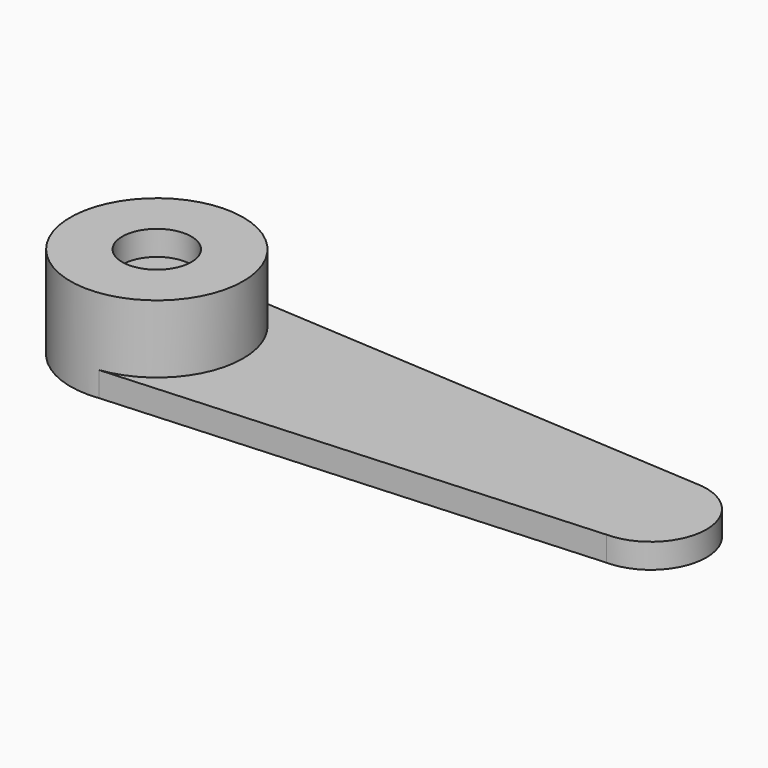
from build123d import *

# Parameters (mm, degrees)
SKETCH002_R      = 4.5
EXTRUDE002_DEPTH = 2
SKETCH_R         = 7
EXTRUDE001_DEPTH = 7.5
EXTRUDE_DEPTH    = 2
SKETCH003_R      = 2.8
POCKET_DEPTH     = 2


with BuildPart() as extrudehead:
    # Sketch002 → Extrude002 (new body)
    with BuildSketch(Plane.XY):
        with Locations((40, 0)):
            Circle(SKETCH002_R)
    extrude(amount=EXTRUDE002_DEPTH)


with BuildPart() as extrudemount:
    # Sketch → Extrude001 (new body)
    with BuildSketch(Plane.XY):
        Circle(SKETCH_R)
    extrude(amount=EXTRUDE001_DEPTH)


with BuildPart() as body:
    # Sketch001 (on Sketch) → Extrude (new body)
    with BuildSketch(Plane.XY):
        Polygon((40, 4.5), (0, 7), (0, -7), (40, -4.5), align=None)
    extrude(amount=EXTRUDE_DEPTH)

    # Fusion: union ExtrudeMount
    add(extrudemount.part)

    # Fusion001: union ExtrudeHead
    add(extrudehead.part)

    # Sketch003 (on Face16 of Fusion001) → Pocket (cut)
    with BuildSketch(Plane.XY.offset(7.5)):
        Circle(SKETCH003_R)
    extrude(amount=-POCKET_DEPTH, mode=Mode.SUBTRACT)


solid = body.part
